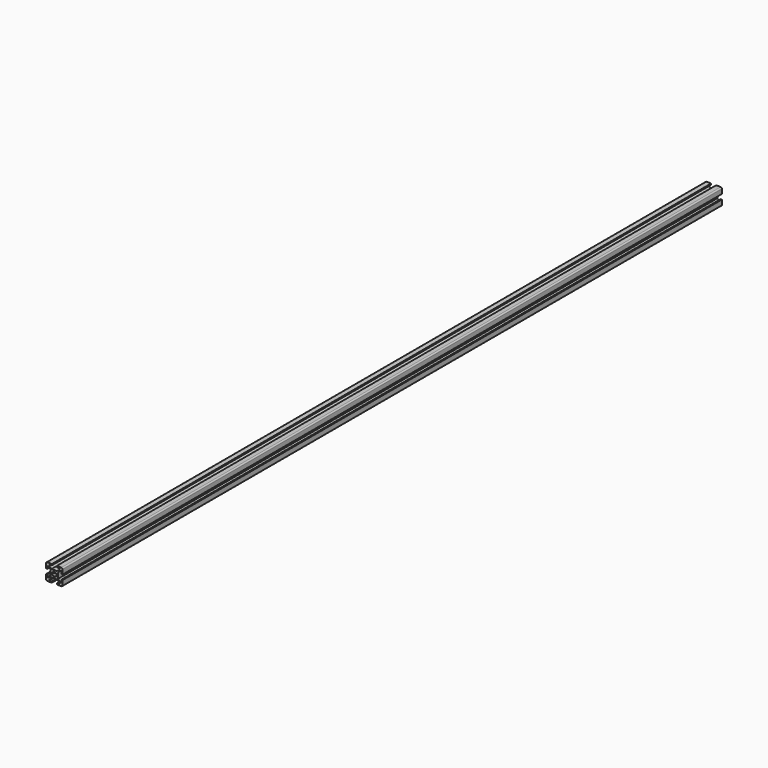
from build123d import *

# Parameters (mm, degrees)
F1_DEPTH = 1000


with BuildPart() as f1:
    # F0 (on Front) → F1 (new body)
    with BuildSketch(Plane.XZ):
        with BuildLine():
            Line((3, -10), (8.5, -10))
            ThreePointArc((8.5, -10), (9.5606601718, -9.5606601718), (10, -8.5))
            Line((10, -8.5), (10, -3))
            Line((10, -3), (8.5, -3))
            Line((8.5, -3), (8.5, -6))
            Line((8.5, -6), (7.0606601718, -6))
            Line((7.0606601718, -6), (4.5, -3.4393398282))
            Line((4.5, -3.4393398282), (4.5, 3.4393398282))
            Line((4.5, 3.4393398282), (7.0606601718, 6))
            Line((7.0606601718, 6), (8.5, 6))
            Line((8.5, 6), (8.5, 3))
            Line((8.5, 3), (10, 3))
            Line((10, 3), (10, 8.5))
            ThreePointArc((10, 8.5), (9.5606601718, 9.5606601718), (8.5, 10))
            Line((8.5, 10), (3, 10))
            Line((3, 10), (3, 8.5))
            Line((3, 8.5), (6, 8.5))
            Line((6, 8.5), (6, 7.0606601718))
            Line((6, 7.0606601718), (3.4393398282, 4.5))
            Line((3.4393398282, 4.5), (-3.4393398282, 4.5))
            Line((-3.4393398282, 4.5), (-6, 7.0606601718))
            Line((-6, 7.0606601718), (-6, 8.5))
            Line((-6, 8.5), (-3, 8.5))
            Line((-3, 8.5), (-3, 10))
            Line((-3, 10), (-8.5, 10))
            ThreePointArc((-8.5, 10), (-9.5606601718, 9.5606601718), (-10, 8.5))
            Line((-10, 8.5), (-10, 3))
            Line((-10, 3), (-8.5, 3))
            Line((-8.5, 3), (-8.5, 6))
            Line((-8.5, 6), (-7.0606601718, 6))
            Line((-7.0606601718, 6), (-4.5, 3.4393398282))
            Line((-4.5, 3.4393398282), (-4.5, -3.4393398282))
            Line((-4.5, -3.4393398282), (-7.0606601718, -6))
            Line((-7.0606601718, -6), (-8.5, -6))
            Line((-8.5, -6), (-8.5, -3))
            Line((-8.5, -3), (-10, -3))
            Line((-10, -3), (-10, -8.5))
            ThreePointArc((-10, -8.5), (-9.5606601718, -9.5606601718), (-8.5, -10))
            Line((-8.5, -10), (-3, -10))
            Line((-3, -10), (-3, -8.5))
            Line((-3, -8.5), (-6, -8.5))
            Line((-6, -8.5), (-6, -7.0606601718))
            Line((-6, -7.0606601718), (-3.4393398282, -4.5))
            Line((-3.4393398282, -4.5), (3.4393398282, -4.5))
            Line((3.4393398282, -4.5), (6, -7.0606601718))
            Line((6, -7.0606601718), (6, -8.5))
            Line((6, -8.5), (3, -8.5))
            Line((3, -8.5), (3, -10))
        make_face()
        with BuildLine():
            ThreePointArc((-1.1560121095, 2.2166722813), (0, 2.5), (1.1560121095, 2.2166722813))
            Line((1.1560121095, 2.2166722813), (1.4393398282, 2.5))
            Line((1.4393398282, 2.5), (2.5, 1.4393398282))
            Line((2.5, 1.4393398282), (2.2166722813, 1.1560121095))
            ThreePointArc((2.2166722813, 1.1560121095), (2.5, 0), (2.2166722813, -1.1560121095))
            Line((2.2166722813, -1.1560121095), (2.5, -1.4393398282))
            Line((2.5, -1.4393398282), (1.4393398282, -2.5))
            Line((1.4393398282, -2.5), (1.1560121095, -2.2166722813))
            ThreePointArc((1.1560121095, -2.2166722813), (0, -2.5), (-1.1560121095, -2.2166722813))
            Line((-1.1560121095, -2.2166722813), (-1.4393398282, -2.5))
            Line((-1.4393398282, -2.5), (-2.5, -1.4393398282))
            Line((-2.5, -1.4393398282), (-2.2166722813, -1.1560121095))
            ThreePointArc((-2.2166722813, -1.1560121095), (-2.5, 0), (-2.2166722813, 1.1560121095))
            Line((-2.2166722813, 1.1560121095), (-2.5, 1.4393398282))
            Line((-2.5, 1.4393398282), (-1.4393398282, 2.5))
            Line((-1.4393398282, 2.5), (-1.1560121095, 2.2166722813))
        make_face(mode=Mode.SUBTRACT)
    extrude(amount=F1_DEPTH)


solid = f1.part
